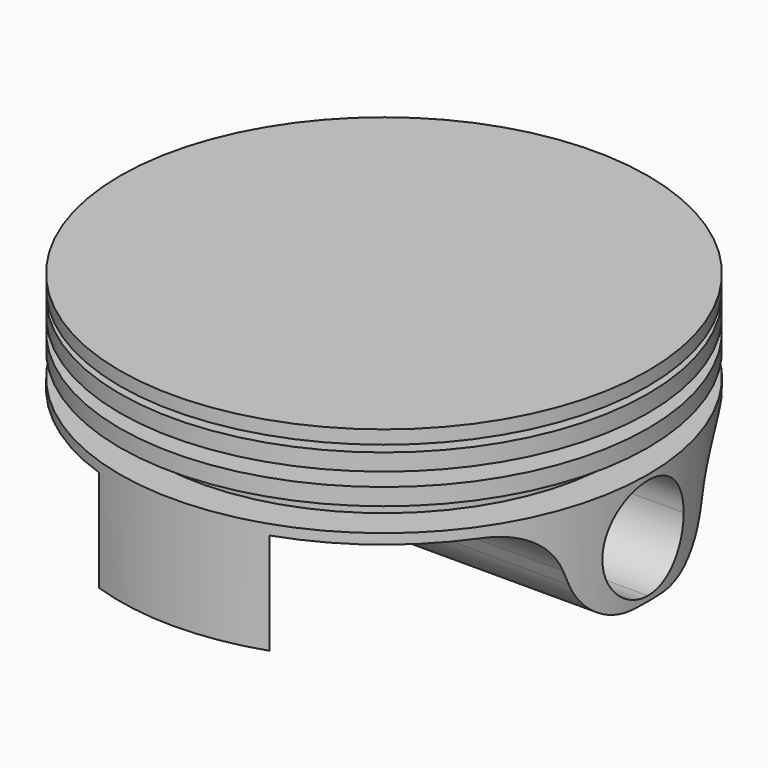
from build123d import *

# Parameters (mm, degrees)
F3_DEPTH = 50
F5_DEPTH = 50


with BuildPart() as f1:
    # F0 (on Front) → F1 (revolve)
    with BuildSketch(Plane.XZ):
        Polygon((39, 30), (0, 30), (0, 0), (39, 0), (39, 16.5), (34, 16.5), (34, 20), (39, 20), (39, 22.5), (34, 22.5), (34, 24.5), (39, 24.5), (39, 27), (34, 27), (34, 28), (39, 28), align=None)
    revolve(axis=Axis((0, 0, 15), (0, 0, -1)))

    # F2 (on Right) → F3 (cut, symmetric)
    with BuildSketch(Plane.YZ):
        with BuildLine():
            Line((-36.911555, 0), (-2.806354, 0))
            ThreePointArc((-2.806354, 0), (-8.50987, 1.785993), (-12.176097, 6.506018))
            Line((-12.176097, 6.506018), (-12.91741, 8.493982))
            ThreePointArc((-12.91741, 8.493982), (-16.583638, 13.214007), (-22.287154, 15))
            Line((-22.287154, 15), (-36.911555, 15))
            Line((-36.911555, 15), (-36.911555, 0))
        make_face()
        with BuildLine():
            Line((36.911555, 15), (22.287154, 15))
            ThreePointArc((22.287154, 15), (16.583638, 13.214007), (12.91741, 8.493982))
            Line((12.91741, 8.493982), (12.176097, 6.506018))
            ThreePointArc((12.176097, 6.506018), (8.50987, 1.785993), (2.806354, 0))
            Line((2.806354, 0), (36.911555, 0))
            Line((36.911555, 0), (36.911555, 15))
        make_face()
    extrude(amount=F3_DEPTH, both=True, mode=Mode.SUBTRACT)

    # F4 (on Right) → F5 (cut, symmetric)
    with BuildSketch(Plane.YZ):
        with BuildLine():
            ThreePointArc((0, 15.75), (-7.5, 8.25), (0, 0.75))
            Line((0, 0.75), (0, 8.25))
            Line((0, 8.25), (0, 15.75))
        make_face()
        with BuildLine():
            Line((0, 8.25), (0, 0.75))
            ThreePointArc((0, 0.75), (5.303301, 2.946699), (7.5, 8.25))
            ThreePointArc((7.5, 8.25), (5.303301, 13.553301), (0, 15.75))
            Line((0, 15.75), (0, 8.25))
        make_face()
    extrude(amount=F5_DEPTH, both=True, mode=Mode.SUBTRACT)


solid = f1.part
